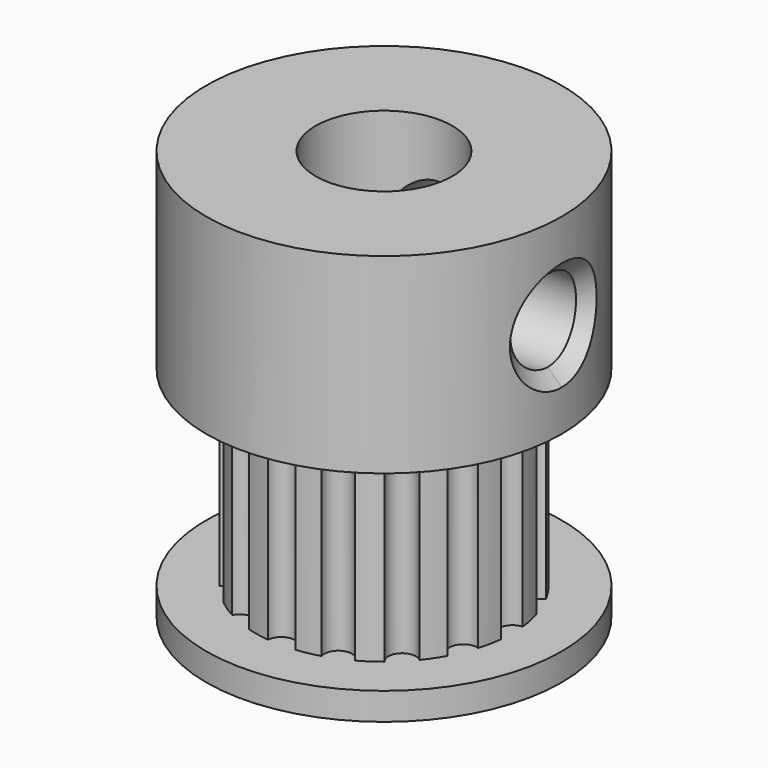
from build123d import *

# Parameters (mm, degrees)
SKETCH068_R            = 0.5
PAD053_DEPTH           = 7
SKETCH067_R            = 1.5
PAD052_DEPTH           = 8
SKETCH066_R            = 1.5
PAD051_DEPTH           = 8
SKETCH065_R            = 2.5
POCKET002_DEPTH        = 15
CHAMFER002_SIZE        = 0.5
CHAMFER003_SIZE        = 0.5
CUT005_PLACEMENT_ANGLE = 180


with BuildPart() as pad053:
    # Sketch068 → Pad053 (new body)
    with BuildSketch(Plane.XY.offset(14)):
        with Locations((0, 4.7)):
            Circle(SKETCH068_R)
        with Locations((0, -4.7)):
            Circle(SKETCH068_R)
        with Locations((4.7, 0)):
            Circle(SKETCH068_R)
        with Locations((-4.7, 0)):
            Circle(SKETCH068_R)
        with Locations((-3.323402, 3.323402)):
            Circle(SKETCH068_R)
        with Locations((3.323402, 3.323402)):
            Circle(SKETCH068_R)
        with Locations((-3.323402, -3.323402)):
            Circle(SKETCH068_R)
        with Locations((3.323402, -3.323402)):
            Circle(SKETCH068_R)
        with Locations((-1.798612, 4.342234)):
            Circle(SKETCH068_R)
        with Locations((1.798612, 4.342234)):
            Circle(SKETCH068_R)
        with Locations((4.342234, 1.798612)):
            Circle(SKETCH068_R)
        with Locations((4.342234, -1.798612)):
            Circle(SKETCH068_R)
        with Locations((1.798612, -4.342234)):
            Circle(SKETCH068_R)
        with Locations((-1.798612, -4.342234)):
            Circle(SKETCH068_R)
        with Locations((-4.342234, -1.798612)):
            Circle(SKETCH068_R)
        with Locations((-4.314713, 1.863666)):
            Circle(SKETCH068_R)
    extrude(amount=-PAD053_DEPTH)


with BuildPart() as pad052:
    # Sketch067 → Pad052 (new body)
    with BuildSketch(Plane(origin=(7, 0, 3.5), x_dir=(0, 1, 0), z_dir=(1, 0, 0))):
        Circle(SKETCH067_R)
    extrude(amount=-PAD052_DEPTH)


with BuildPart() as pad051:
    # Sketch066 → Pad051 (new body)
    with BuildSketch(Plane(origin=(0, -7, 3.5), x_dir=(1, 0, 0), z_dir=(0, -1, 0))):
        Circle(SKETCH066_R)
    extrude(amount=-PAD051_DEPTH)


with BuildPart() as gt1_pulley001:
    # Sketch064 → Revolution004 (revolve)
    with BuildSketch(Plane.XZ):
        Polygon((0, 0), (6.5, 0), (6.5, 7), (4.7, 7), (4.7, 14), (6.5, 14), (6.5, 15), (0, 15), align=None)
    revolve(axis=Axis((0, 0, 0), (0, 0, 1)))

    # Sketch065 (on Face7 of Revolution004) → Pocket002 (cut)
    with BuildSketch(Plane(origin=(0, 0, 15), x_dir=(-1, 0, 0), z_dir=(0, 0, 1))):
        Circle(SKETCH065_R)
    extrude(amount=-POCKET002_DEPTH, mode=Mode.SUBTRACT)

    # Cut003: cut Pad051
    add(pad051.part, mode=Mode.SUBTRACT)

    # Cut004: cut Pad052
    add(pad052.part, mode=Mode.SUBTRACT)

    # Chamfer002
    chamfer002_edges = [gt1_pulley001.edges().sort_by_distance(p)[0] for p in [
        (-4e-06, -6.499997, 4.999986),
        (-4e-06, -6.499997, 2.000014),
        (6.412872, 1.060693, 4.560627),
        (6.412872, 1.060693, 2.439373),
        (6.412872, -1.060693, 2.439373),
        (6.412872, -1.060693, 4.560627),
    ]]
    chamfer(chamfer002_edges, length=CHAMFER002_SIZE)

    # Chamfer003
    chamfer003_edges = [gt1_pulley001.edges().sort_by_distance(p)[0] for p in [
        (2.5, 0, 15),
    ]]
    chamfer(chamfer003_edges, length=CHAMFER003_SIZE)

    # Cut005: cut Pad053
    add(pad053.part, mode=Mode.SUBTRACT)


with BuildPart() as gt1_pulley001_1:
    # Cut005 placement: moved
    add(gt1_pulley001.part.moved(Location((-4, 0, 26))).rotate(Axis((-4, 0, 26), (1, 0, 0)), CUT005_PLACEMENT_ANGLE))


solid = gt1_pulley001_1.part
